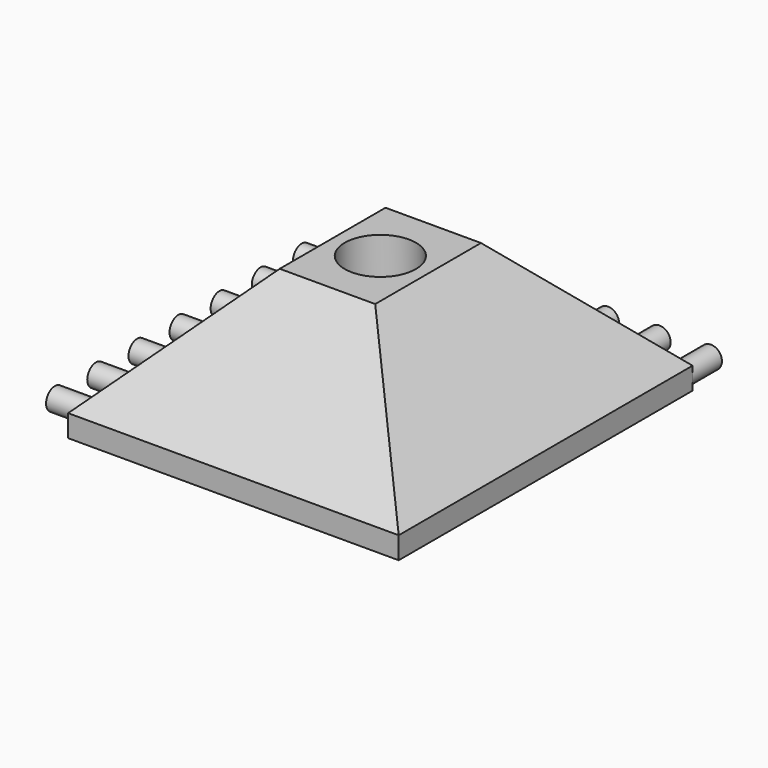
from build123d import *

# Parameters (mm, degrees)
SKETCH_W        = 45
SKETCH_H        = 50
PAD_DEPTH       = 25
CHAMFER_SIZE    = 22
SKETCH001_R     = 4.85
POCKET_DEPTH    = 25.001
SKETCH002_W     = 32.700705
SKETCH002_H     = 10
POCKET001_DEPTH = 45.001
SKETCH003_R     = 1.5
SKETCH003_R_2   = 1.518583
SKETCH003_R_3   = 1.500476
PAD001_DEPTH    = 5
SKETCH004_R     = 1.5
SKETCH004_R_2   = 1.504062
SKETCH004_R_3   = 1.509717
SKETCH004_R_4   = 1.483533
SKETCH004_R_5   = 1.504121
PAD002_DEPTH    = 5
POCKET002_DEPTH = 7


with BuildPart() as part:
    # Sketch → Pad (new body)
    with BuildSketch(Plane.XY):
        Rectangle(SKETCH_W, SKETCH_H)
    extrude(amount=PAD_DEPTH)

    # Chamfer
    chamfer_edges = [part.edges().sort_by_distance(p)[0] for p in [
        (0, 25, 25),
        (-22.5, 0, 25),
        (0, -25, 25),
        (22.5, 0, 25),
    ]]
    chamfer(chamfer_edges, length=CHAMFER_SIZE)

    # Sketch001 → Pocket (cut, through all)
    with BuildSketch(Plane(origin=(0, 0, 0), x_dir=(1, 0, 0), z_dir=(0, 0, -1))):
        Circle(SKETCH001_R)
    extrude(amount=-POCKET_DEPTH, mode=Mode.SUBTRACT)

    # Sketch002 → Pocket001 (cut, through all)
    with BuildSketch(Plane(origin=(-22.5, 0, 0), x_dir=(0, -1, 0), z_dir=(-1, 0, 0))):
        with Locations((-0.350352, 24)):
            Rectangle(SKETCH002_W, SKETCH002_H)
    extrude(amount=-POCKET001_DEPTH, mode=Mode.SUBTRACT)

    # Sketch003 → Pad001 (new body)
    with BuildSketch(Plane(origin=(0, 25, 0), x_dir=(-1, 0, 0), z_dir=(0, 1, 0))):
        with Locations((-21, 1.5)):
            Circle(SKETCH003_R)
        with Locations((-14, 1.5)):
            Circle(SKETCH003_R_2)
        with Locations((0, 1.5)):
            Circle(SKETCH003_R)
        with Locations((-7, 1.5)):
            Circle(SKETCH003_R)
        with Locations((7, 1.5)):
            Circle(SKETCH003_R_3)
        with Locations((14, 1.5)):
            Circle(SKETCH003_R)
        with Locations((21, 1.5)):
            Circle(SKETCH003_R)
    extrude(amount=PAD001_DEPTH)

    # Sketch004 → Pad002 (new body)
    with BuildSketch(Plane(origin=(-22.5, 0, 0), x_dir=(0, -1, 0), z_dir=(-1, 0, 0))):
        with Locations((0, 1.5)):
            Circle(SKETCH004_R)
        with Locations((-7, 1.5)):
            Circle(SKETCH004_R_2)
        with Locations((-14, 1.5)):
            Circle(SKETCH004_R)
        with Locations((-21, 1.5)):
            Circle(SKETCH004_R_3)
        with Locations((7, 1.5)):
            Circle(SKETCH004_R_4)
        with Locations((14, 1.5)):
            Circle(SKETCH004_R)
        with Locations((21, 1.5)):
            Circle(SKETCH004_R_5)
    extrude(amount=PAD002_DEPTH)

    # Sketch005 → Pocket002 (cut)
    with BuildSketch(Plane(origin=(0, 0, 0), x_dir=(1, 0, 0), z_dir=(0, 0, -1))):
        Polygon((7.3, -4.214657), (7.3, 4.214657), (0, 8.429314), (-7.3, 4.214657), (-7.3, -4.214657), (0, -8.429314), align=None)
    extrude(amount=-POCKET002_DEPTH, mode=Mode.SUBTRACT)


solid = part.part
